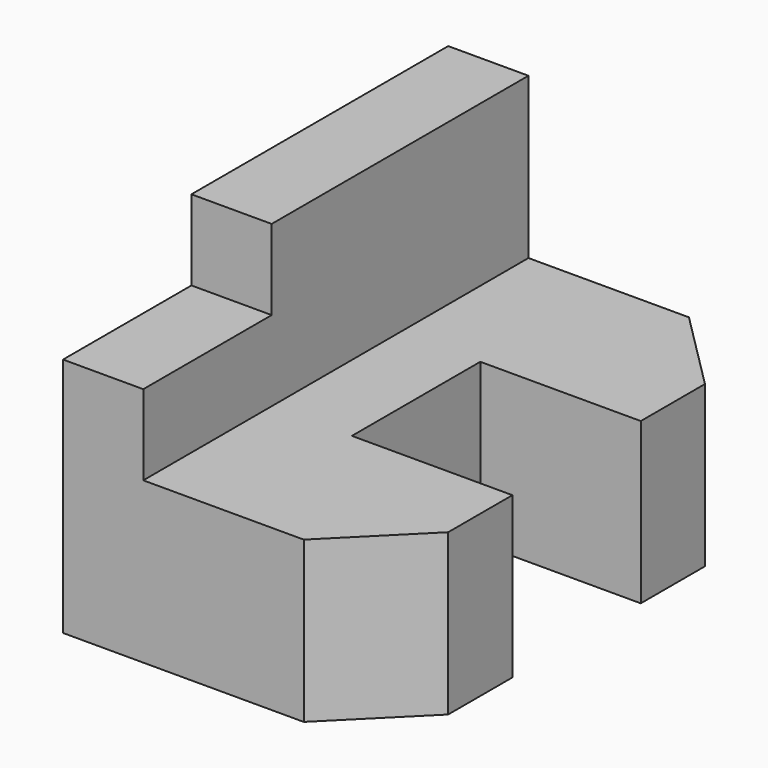
from build123d import *

# Parameters (mm, degrees)
F1_DEPTH = 20
F2_SIZE  = 10
F4_DEPTH = 10


with BuildPart() as f1:
    # F0 (on Top) → F1 (new body)
    with BuildSketch(Plane.XY):
        Polygon((0, 30), (0, -30), (40, -30), (40, -10), (20, -10), (20, 10), (40, 10), (40, 30), align=None)
    extrude(amount=F1_DEPTH)

    # F2
    f2_edges = [f1.edges().sort_by_distance(p)[0] for p in [
        (40, -30, 10),
        (40, 30, 10),
    ]]
    chamfer(f2_edges, length=F2_SIZE)

    # F3 (on face) → F4 (join)
    with BuildSketch(Plane(origin=(0, 0, 0), x_dir=(0, -1, 0), z_dir=(-1, 0, 0))):
        Polygon((-30, 40), (-30, 20), (30, 20), (30, 30), (10, 30), (10, 40), align=None)
    extrude(amount=-F4_DEPTH)


solid = f1.part
